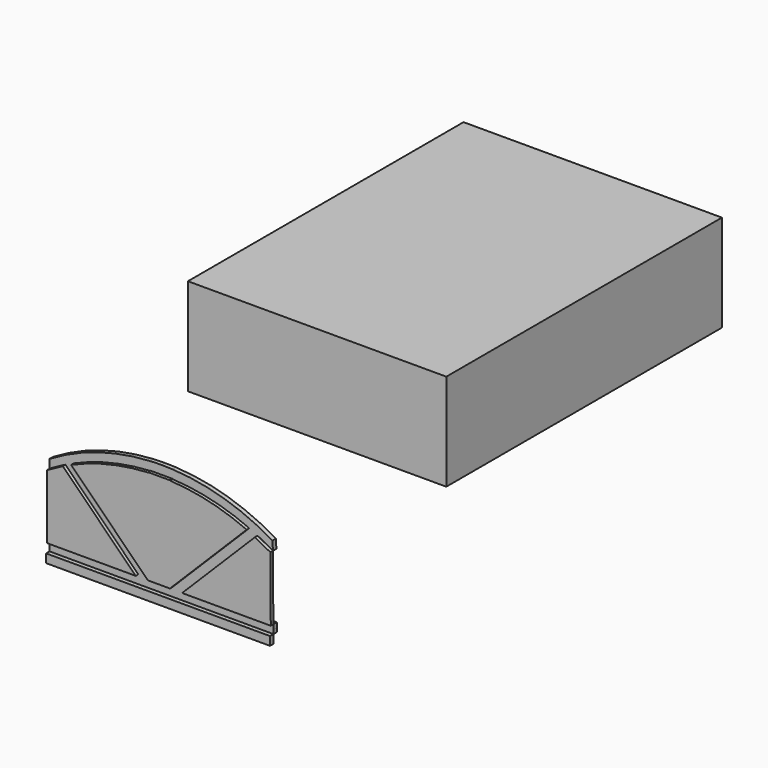
from build123d import *

# Parameters (mm, degrees)
F1_DEPTH  = 25.4
F2_W      = 1320.8
F2_H      = 50.8
F3_DEPTH  = 25.4
F4_W      = 228.6
F4_H      = 101.6
F5_DEPTH  = 25.4
F5_TAPER  = -15
F6_W      = 279.4
F6_H      = 152.4
F6_W_2    = 242.2118189755
F6_H_2    = 115.2118189755
F7_DEPTH  = 25.4
F8_R      = 5.08
F9_W      = 1524
F9_H      = 2032
F10_DEPTH = 571.5
F12_DEPTH = 19.05


with BuildPart() as f1:
    # F0 (on Front) → F1 (new body)
    with BuildSketch(Plane.XZ):
        with BuildLine():
            ThreePointArc((-517.7624135276, 171.7001135276), (-542.3642599869, 160.5184883538), (-566.7247843556, 148.8204353871))
            Line((-566.7247843556, 148.8204353871), (-327.3396312481, -90.5647177205))
            Line((-327.3396312481, -90.5647177205), (-136.9168489686, -280.9875))
            Line((-136.9168489686, -280.9875), (-65.0748, -280.9875))
            Line((-65.0748, -280.9875), (-517.7624135276, 171.7001135276))
        make_face()
        with BuildLine():
            Line((92.3055559397, -280.9875), (65.0748, -280.9875))
            Line((65.0748, -280.9875), (-65.0748, -280.9875))
            Line((-65.0748, -280.9875), (-136.9168489686, -280.9875))
            Line((-136.9168489686, -280.9875), (-659.8151326593, -280.9875))
            Line((-659.8151326593, -280.9875), (-660.4, -280.9875))
            Line((-660.4, -280.9875), (-660.4, -331.7875))
            Line((-660.4, -331.7875), (660.4, -331.7875))
            Line((660.4, -331.7875), (660.4, -308.7751))
            ThreePointArc((660.4, -308.7751), (660.2537669746, -294.8782228007), (659.8151326593, -280.9875))
            Line((659.8151326593, -280.9875), (136.9168489686, -280.9875))
            Line((136.9168489686, -280.9875), (92.3055559397, -280.9875))
        make_face()
        with BuildLine():
            Line((327.3396312481, -90.5647177205), (566.7247843556, 148.8204353871))
            ThreePointArc((566.7247843556, 148.8204353871), (542.3642599869, 160.5184883538), (517.7624135276, 171.7001135276))
            Line((517.7624135276, 171.7001135276), (65.0748, -280.9875))
            Line((65.0748, -280.9875), (92.3055559397, -280.9875))
            Line((92.3055559397, -280.9875), (136.9168489686, -280.9875))
            Line((136.9168489686, -280.9875), (327.3396312481, -90.5647177205))
        make_face()
        with BuildLine():
            ThreePointArc((65.0748, 330.1336941624), (32.5479057267, 331.3739818035), (0, 331.7875))
            ThreePointArc((0, 331.7875), (-32.5479057267, 331.3739818035), (-65.0748, 330.1336941624))
            ThreePointArc((-65.0748, 330.1336941624), (-373.9385103205, 275.9997100934), (-660.4, 148.4571888909))
            Line((-660.4, 148.4571888909), (-660.4, 97.6571888909))
            ThreePointArc((-660.4, 97.6571888909), (-614.0954555629, 124.2148023462), (-566.7247843556, 148.8204353871))
            ThreePointArc((-566.7247843556, 148.8204353871), (-542.3642599869, 160.5184883538), (-517.7624135276, 171.7001135276))
            ThreePointArc((-517.7624135276, 171.7001135276), (-296.3461679999, 246.2413461921), (-65.0748, 279.3336941624))
            Line((-65.0748, 279.3336941624), (-65.0748, 280.9875))
            Line((-65.0748, 280.9875), (0, 280.9875))
            Line((0, 280.9875), (65.0748, 280.9875))
            Line((65.0748, 280.9875), (65.0748, 279.3336941624))
            ThreePointArc((65.0748, 279.3336941624), (296.3461679999, 246.2413461921), (517.7624135276, 171.7001135276))
            ThreePointArc((517.7624135276, 171.7001135276), (542.3642599869, 160.5184883538), (566.7247843556, 148.8204353871))
            ThreePointArc((566.7247843556, 148.8204353871), (612.5598727198, 125.0521419416), (657.4000349064, 99.4563033395))
            Line((657.4000349064, 99.4563033395), (654.3120220333, 152.0966175595))
            ThreePointArc((654.3120220333, 152.0966175595), (370.5450716042, 277.0301599771), (65.0748, 330.1336941624))
        make_face()
    extrude(amount=F1_DEPTH)


with BuildPart() as f3:
    # F2 (on face) → F3 (new body)
    with BuildSketch(Plane.XZ.offset(25.4)):
        with Locations((0, -357.1875)):
            Rectangle(F2_W, F2_H)
    extrude(amount=F3_DEPTH)


with BuildPart() as f5:
    # F4 (on Top) → F5 (new body)
    with BuildSketch(Plane.XY):
        with Locations((-12.5393885701, 227.4938076735)):
            Rectangle(F4_W, F4_H)
    extrude(amount=F5_DEPTH, taper=F5_TAPER)

    # F6 (on face) → F7 (join)
    with BuildSketch(Plane.XY.offset(25.4)):
        with Locations((-12.5393885701, 227.4938076735)):
            Rectangle(F6_W, F6_H)
        with Locations((-12.5393885701, 227.4938076735)):
            Rectangle(F6_W_2, F6_H_2, mode=Mode.SUBTRACT)
        with Locations((-12.5393885701, 227.4938076735)):
            Rectangle(F6_W_2, F6_H_2)
    extrude(amount=F7_DEPTH)

    # F8
    f8_edges = [f5.edges().sort_by_distance(p)[0] for p in [
        (127.160611, 227.493808, 50.8),
        (-12.539389, 151.293808, 50.8),
        (-12.539389, 303.693808, 50.8),
        (-152.239389, 227.493808, 50.8),
    ]]
    fillet(f8_edges, radius=F8_R)


with BuildPart() as f10:
    # F9 (on Top) → F10 (new body)
    with BuildSketch(Plane.XY):
        with Locations((0, 2137.9242895666)):
            Rectangle(F9_W, F9_H)
    extrude(amount=F10_DEPTH)


with BuildPart() as f12:
    # F11 (on face) → F12 (new body)
    with BuildSketch(Plane.XZ.offset(25.4)):
        Polygon((659.8151326593, -280.9875), (657.4000349064, 99.4563033395), (566.7247843556, 148.8204353871), (136.9168489686, -280.9875), align=None)
    extrude(amount=F12_DEPTH)


with BuildPart() as f12b:
    # F11 (on face) → F12, piece 2 (new body)
    with BuildSketch(Plane.XZ.offset(25.4)):
        with BuildLine():
            Line((65.0748, -280.9875), (517.7624135276, 171.7001135276))
            ThreePointArc((517.7624135276, 171.7001135276), (296.3461679999, 246.2413461921), (65.0748, 279.3336941624))
            Line((65.0748, 279.3336941624), (65.0748, 280.9875))
            Line((65.0748, 280.9875), (-65.0748, 280.9875))
            Line((-65.0748, 280.9875), (-65.0748, 279.3336941624))
            ThreePointArc((-65.0748, 279.3336941624), (-296.3461679999, 246.2413461921), (-517.7624135276, 171.7001135276))
            Line((-517.7624135276, 171.7001135276), (-65.0748, -280.9875))
            Line((-65.0748, -280.9875), (65.0748, -280.9875))
        make_face()
    extrude(amount=F12_DEPTH)


with BuildPart() as f12c:
    # F11 (on face) → F12, piece 3 (new body)
    with BuildSketch(Plane.XZ.offset(25.4)):
        Polygon((-566.7247843556, 148.8204353871), (-660.4, 97.6571888909), (-660.4, -280.9875), (-136.9168489686, -280.9875), align=None)
    extrude(amount=F12_DEPTH)


solid = Compound([f1.part, f3.part, f5.part, f10.part, f12.part, f12b.part, f12c.part])
